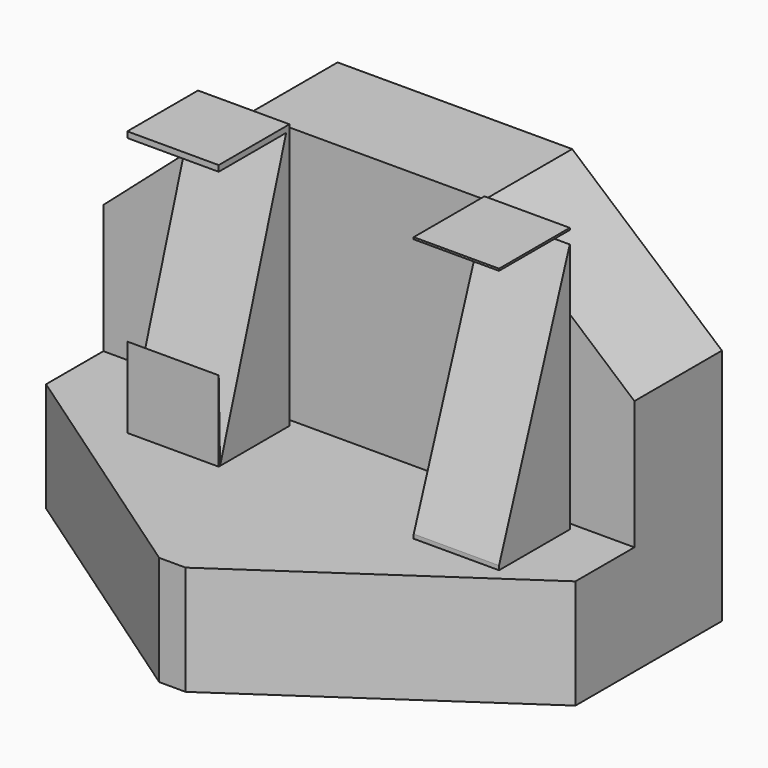
from build123d import *

# Parameters (mm, degrees)
F1_DEPTH      = 25.4
F1_DEPTH_BACK = 25.4
F3_DEPTH      = 25.4
F5_DEPTH      = 25.4
F6_W          = 8.746969
F6_H          = 8.4582
F6_W_2        = 8.16131
F7_DEPTH      = 25.4
F9_DEPTH      = 25.4
F11_DEPTH     = 25.4


with BuildPart() as f1:
    # F0 (on Right) → F1 (new body, two sides)
    with BuildSketch(Plane.YZ) as f1_sk:
        Polygon((-10.4648, 0), (-33.967059, 0), (-33.967059, -10.4648), (0, -10.4648), (0, 24.629673), (-10.4648, 24.629673), align=None)
    extrude(amount=F1_DEPTH)
    extrude(f1_sk.sketch, amount=-F1_DEPTH_BACK)

    # F2 (on Top) → F3 (cut)
    with BuildSketch(Plane.XY):
        Polygon((25.649834, -17.342787), (0, -34.833413), (25.649834, -34.833413), align=None)
        Polygon((0, -34.833413), (-27.24384, -16.0423), (-27.24384, -34.833413), align=None)
    extrude(amount=-F3_DEPTH, mode=Mode.SUBTRACT)

    # F4 (on face) → F5 (cut)
    with BuildSketch(Plane.XZ.offset(10.4648)):
        Polygon((-25.4, 24.629673), (-25.4, 12.314836), (-11.367541, 24.629673), align=None)
        Polygon((11.076065, 24.629673), (25.4, 12.314836), (25.4, 24.629673), align=None)
    extrude(amount=-F5_DEPTH, mode=Mode.SUBTRACT)


with BuildPart() as f7:
    # F6 (on Top) → F7 (new body)
    with BuildSketch(Plane.XY):
        with Locations((-11.368895, -15.448198)):
            Rectangle(F6_W, F6_H)
        with Locations((15.739672, -15.448198)):
            Rectangle(F6_W_2, F6_H)
    extrude(amount=F7_DEPTH)

    # F8 (on face) → F9 (cut)
    with BuildSketch(Plane.YZ.offset(19.820327)):
        Polygon((-19.820329, 25.212623), (-19.820329, 0), (-10.784591, 25.212623), align=None)
    extrude(amount=-F9_DEPTH, mode=Mode.SUBTRACT)

    # F10 (on face) → F11 (cut)
    with BuildSketch(Plane(origin=(-15.74238, 0, 0), x_dir=(0, -1, 0), z_dir=(-1, 0, 0))):
        Polygon((19.677298, 7.696618), (19.677298, 24.836298), (11.607133, 24.836298), (19.517587, 0), align=None)
    extrude(amount=-F11_DEPTH, mode=Mode.SUBTRACT)


solid = Compound([f1.part, f7.part])
